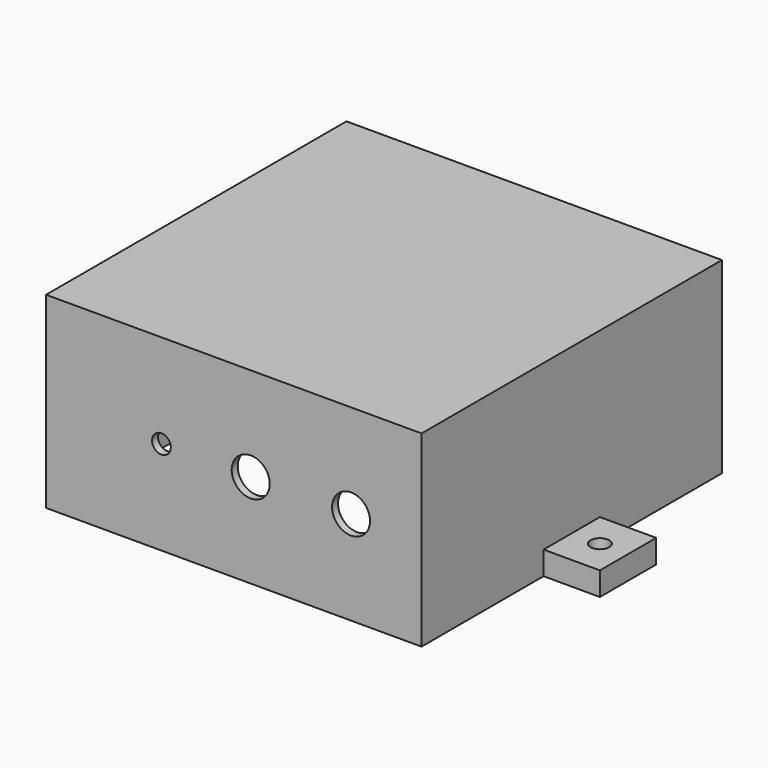
from build123d import *

# Parameters (mm, degrees)
F0_W      = 12
F0_H      = 15
F0_R      = 2
F1_DEPTH  = 5
F0_W_2    = 76.8
F0_H_2    = 76.8
F2_DEPTH  = 40
F3_W      = 76.8
F3_H      = 76.8
F4_DEPTH  = 2
F5_R      = 10.5
F6_DEPTH  = 25
F7_R      = 6
F8_DEPTH  = 25
F9_R      = 4.05
F9_R_2    = 2
F10_DEPTH = 25


with BuildPart() as f1:
    # F0 (on Top) → F1 (new body)
    with BuildSketch(Plane.XY):
        with Locations((-46, 0)):
            Rectangle(F0_W, F0_H)
        with Locations((-46, 0)):
            Circle(F0_R, mode=Mode.SUBTRACT)
        with Locations((46, 0)):
            Rectangle(F0_W, F0_H)
        with Locations((46, 0)):
            Circle(F0_R, mode=Mode.SUBTRACT)
    extrude(amount=F1_DEPTH)


with BuildPart() as f2:
    # F0 (on Top) → F2 (new body)
    with BuildSketch(Plane.XY):
        Polygon((-40, -40), (40, -40), (40, -7.5), (40, 7.5), (40, 40), (-40, 40), (-40, 7.5), (-40, -7.5), align=None)
        Rectangle(F0_W_2, F0_H_2, mode=Mode.SUBTRACT)
    extrude(amount=F2_DEPTH)

    # F3 (on face) → F4 (join)
    with BuildSketch(Plane.XY.offset(40)):
        Rectangle(F3_W, F3_H)
    extrude(amount=-F4_DEPTH)

    # F5 (on face) → F6 (cut)
    with BuildSketch(Plane(origin=(0, 40, 0), x_dir=(-1, 0, 0), z_dir=(0, 1, 0))):
        with Locations((-20, 20)):
            Circle(F5_R)
        with Locations((20, 20)):
            Circle(F5_R)
    extrude(amount=-F6_DEPTH, mode=Mode.SUBTRACT)

    # F7 (on face) → F8 (cut)
    with BuildSketch(Plane(origin=(-40, 0, 0), x_dir=(0, -1, 0), z_dir=(-1, 0, 0))):
        with Locations((20, 20)):
            Circle(F7_R)
    extrude(amount=-F8_DEPTH, mode=Mode.SUBTRACT)

    # F9 (on face) → F10 (cut)
    with BuildSketch(Plane.XZ.offset(40)):
        with Locations((24.973074, 20)):
            Circle(F9_R)
        with Locations((3.601355, 20)):
            Circle(F9_R)
        with Locations((-15.428129, 20)):
            Circle(F9_R_2)
    extrude(amount=-F10_DEPTH, mode=Mode.SUBTRACT)


solid = Compound([f1.part, f2.part])
